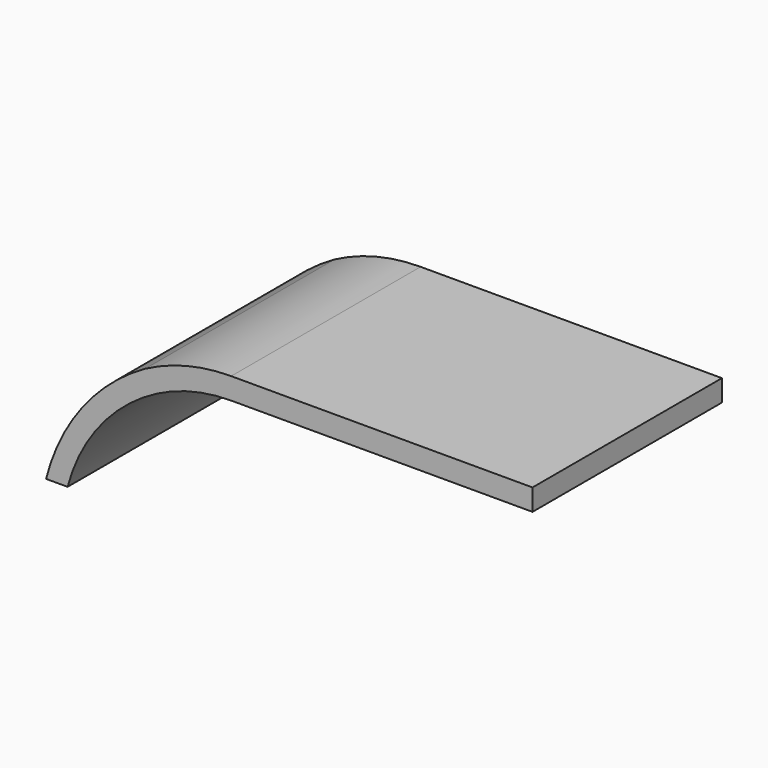
from build123d import *

# Parameters (mm, degrees)
F0_W     = 70
F0_H     = 5
F1_DEPTH = 55


with BuildPart() as f1:
    # F0 (on Front) → F1 (new body)
    with BuildSketch(Plane.XZ):
        with BuildLine():
            Line((-57.330852, 8.084937), (-60.085658, 12.257592))
            ThreePointArc((-60.085658, 12.257592), (-74.668357, -0.379006), (-83.085658, -17.742408))
            Line((-83.085658, -17.742408), (-78.085658, -17.742408))
            ThreePointArc((-78.085658, -17.742408), (-70.439369, -2.634018), (-57.330852, 8.084937))
        make_face()
        with BuildLine():
            Line((-40.085658, 12.257592), (-40.085658, 17.257592))
            ThreePointArc((-40.085658, 17.257592), (-50.393422, 15.988648), (-60.085658, 12.257592))
            Line((-60.085658, 12.257592), (-57.330852, 8.084937))
            ThreePointArc((-57.330852, 8.084937), (-48.95707, 11.199591), (-40.085658, 12.257592))
        make_face()
        with Locations((-5.085658, 14.757592)):
            Rectangle(F0_W, F0_H)
    extrude(amount=F1_DEPTH)


solid = f1.part
